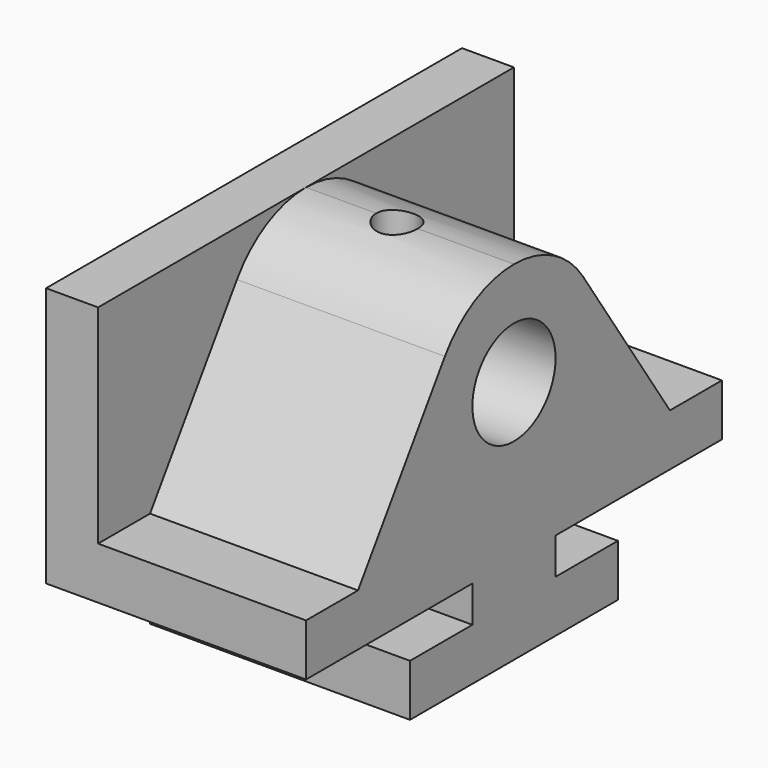
from build123d import *

# Parameters (mm, degrees)
F0_R     = 12.7
F1_DEPTH = 50.8
F2_DEPTH = 12.7
F3_R     = 5.08
F4_DEPTH = 13.7612578348
F5_ANGLE = 90


with BuildPart() as f1:
    # F0 (on Front) → F1 (new body)
    with BuildSketch(Plane.XZ):
        with BuildLine():
            Line((31.75, 12.7), (31.75, 0))
            Line((31.75, 0), (95.25, 0))
            Line((95.25, 0), (95.25, 12.7))
            Line((95.25, 12.7), (76.2, 12.7))
            Line((76.2, 12.7), (76.2, 21.59))
            Line((76.2, 21.59), (127, 21.59))
            Line((127, 21.59), (127, 34.29))
            Line((127, 34.29), (111.125, 34.29))
            Line((111.125, 34.29), (84.5934256055, 73.8401730104))
            ThreePointArc((84.5934256055, 73.8401730104), (75.4529411765, 82.1017647059), (63.5, 85.09))
            ThreePointArc((63.5, 85.09), (51.5470588235, 82.1017647059), (42.4065743945, 73.8401730104))
            Line((42.4065743945, 73.8401730104), (15.875, 34.29))
            Line((15.875, 34.29), (0, 34.29))
            Line((0, 34.29), (0, 21.59))
            Line((0, 21.59), (50.8, 21.59))
            Line((50.8, 21.59), (50.8, 12.7))
            Line((50.8, 12.7), (31.75, 12.7))
        make_face()
        with Locations((63.5, 59.69)):
            Circle(F0_R, mode=Mode.SUBTRACT)
    extrude(amount=F1_DEPTH)

    # F0 (on Front) → F2 (join)
    with BuildSketch(Plane.XZ):
        with BuildLine():
            Line((31.75, 12.7), (31.75, 0))
            Line((31.75, 0), (95.25, 0))
            Line((95.25, 0), (95.25, 12.7))
            Line((95.25, 12.7), (76.2, 12.7))
            Line((76.2, 12.7), (76.2, 21.59))
            Line((76.2, 21.59), (127, 21.59))
            Line((127, 21.59), (127, 34.29))
            Line((127, 34.29), (111.125, 34.29))
            Line((111.125, 34.29), (84.5934256055, 73.8401730104))
            ThreePointArc((84.5934256055, 73.8401730104), (75.4529411765, 82.1017647059), (63.5, 85.09))
            ThreePointArc((63.5, 85.09), (51.5470588235, 82.1017647059), (42.4065743945, 73.8401730104))
            Line((42.4065743945, 73.8401730104), (15.875, 34.29))
            Line((15.875, 34.29), (0, 34.29))
            Line((0, 34.29), (0, 21.59))
            Line((0, 21.59), (50.8, 21.59))
            Line((50.8, 21.59), (50.8, 12.7))
            Line((50.8, 12.7), (31.75, 12.7))
        make_face()
        with Locations((63.5, 59.69)):
            Circle(F0_R, mode=Mode.SUBTRACT)
        with BuildLine():
            Line((0, 85.09), (0, 34.29))
            Line((0, 34.29), (15.875, 34.29))
            Line((15.875, 34.29), (42.4065743945, 73.8401730104))
            ThreePointArc((42.4065743945, 73.8401730104), (51.5470588235, 82.1017647059), (63.5, 85.09))
            Line((63.5, 85.09), (0, 85.09))
        make_face()
        with BuildLine():
            Line((111.125, 34.29), (127, 34.29))
            Line((127, 34.29), (127, 85.09))
            Line((127, 85.09), (63.5, 85.09))
            ThreePointArc((63.5, 85.09), (75.4529411765, 82.1017647059), (84.5934256055, 73.8401730104))
            Line((84.5934256055, 73.8401730104), (111.125, 34.29))
        make_face()
    extrude(amount=-F2_DEPTH)

    # F3 (on face) → F4 (cut, through all)
    with BuildSketch(Plane.XY.offset(85.09)):
        with Locations((63.5, -22.225)):
            Circle(F3_R)
    extrude(amount=-F4_DEPTH, mode=Mode.SUBTRACT)


with BuildPart() as f1_1:
    # F5: moved
    add(f1.part.rotate(Axis((0, 0, 59.69), (0, 0, 1)), F5_ANGLE))


solid = f1_1.part
